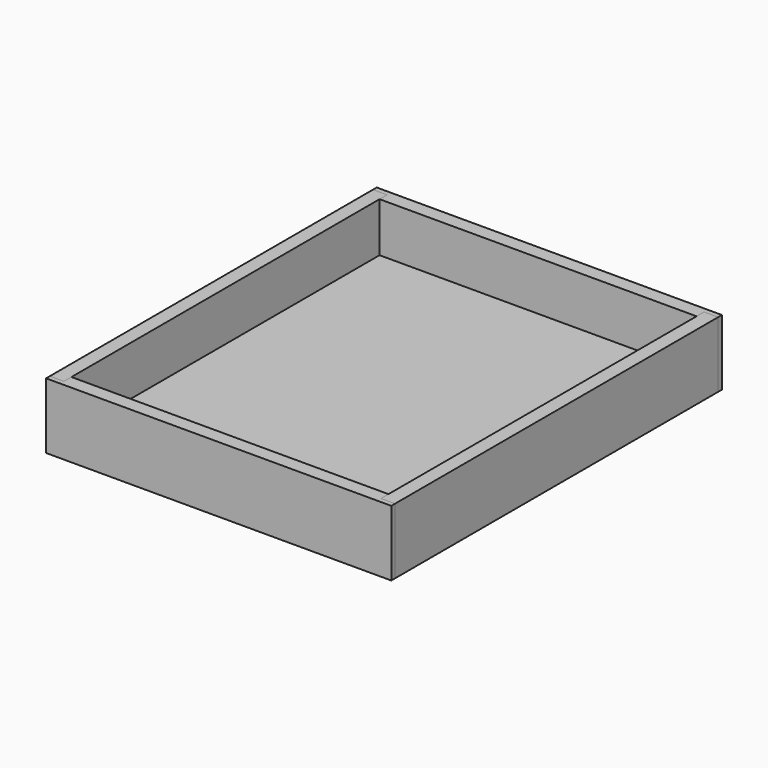
from build123d import *

# Parameters (mm, degrees)
F0_W      = 19.05
F0_H      = 88.9
F1_DEPTH  = 273.05
F2_W      = 6.35
F2_H      = 12.7
F3_DEPTH  = 546.101
F6_DEPTH  = 88.9
F7_W      = 6.35
F7_H      = 12.7
F8_DEPTH  = 428.625
F10_W     = 434.213
F10_H     = 531.876
F11_DEPTH = 12.7


with BuildPart() as f1:
    # F0 (on Front) → F1 (new body, symmetric)
    with BuildSketch(Plane.XZ):
        with Locations((-223.8375, 44.45)):
            Rectangle(F0_W, F0_H)
    extrude(amount=F1_DEPTH, both=True)

    # F2 (on face) → F3 (cut, through all)
    with BuildSketch(Plane.XZ.offset(273.05)):
        with Locations((-217.4875, 15.875)):
            Rectangle(F2_W, F2_H)
    extrude(amount=-F3_DEPTH, mode=Mode.SUBTRACT)


with BuildPart() as f4_1:
    # F4: instance of F1
    add(f1.part.mirror(Plane.YZ))


with BuildPart() as f6:
    # F5 (on face) → F6 (new body, through all)
    with BuildSketch(Plane.XY.offset(88.9)):
        Polygon((214.3125, -260.35), (-214.3125, -260.35), (-214.3125, -273.05), (-233.3625, -273.05), (-233.3625, -279.4), (233.3625, -279.4), (233.3625, -273.05), (214.3125, -273.05), align=None)
    extrude(amount=-F6_DEPTH)

    # F7 (on face) → F8 (cut, through all)
    with BuildSketch(Plane(origin=(-214.3125, 0, 0), x_dir=(0, -1, 0), z_dir=(-1, 0, 0))):
        with Locations((263.525, 15.875)):
            Rectangle(F7_W, F7_H)
    extrude(amount=-F8_DEPTH, mode=Mode.SUBTRACT)


with BuildPart() as f9_1:
    # F9: instance of F6
    add(f6.part.mirror(Plane.XZ))


with BuildPart() as f11:
    # F10 (on face) → F11 (new body)
    with BuildSketch(Plane.XY.offset(9.525)):
        with Locations((2.794, 0)):
            Rectangle(F10_W, F10_H)
    extrude(amount=F11_DEPTH)


solid = Compound([f1.part, f4_1.part, f6.part, f9_1.part, f11.part])
